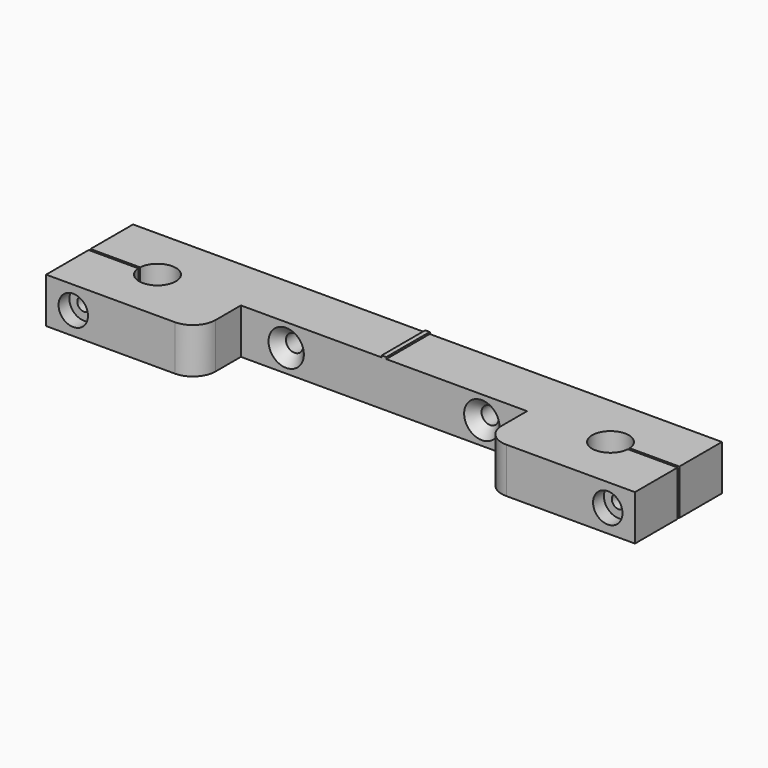
from build123d import *

# Parameters (mm, degrees)
F0_R            = 4.05
F1_DEPTH        = 10
F2_R            = 5
F4_D            = 3.7973
F4_CSINK_D      = 7.7978
F4_CSINK_ANGLE  = 82
F5_W            = 1
F5_H            = 12
F6_DEPTH        = 0.4
F8_DEPTH        = 25
F10_D           = 3
F10_CBORE_D     = 6.5
F10_CBORE_DEPTH = 3


with BuildPart() as f1:
    # F0 (on Top) → F1 (new body)
    with BuildSketch(Plane.XY):
        Polygon((67.5994434953, -8.2149432153), (-62.4005565047, -8.2149432153), (-62.4005565047, -32.2149432153), (-28.9914757013, -32.2149432153), (-28.9914757013, -20.2149432153), (34.1903626919, -20.2149432153), (34.1903626919, -32.2149432153), (67.5994434953, -32.2149432153), align=None)
        with Locations((-47.4005565047, -20.2149432153)):
            Circle(F0_R, mode=Mode.SUBTRACT)
        with Locations((52.5994434953, -20.2149432153)):
            Circle(F0_R, mode=Mode.SUBTRACT)
    extrude(amount=F1_DEPTH)

    # F2
    f2_edges = [f1.edges().sort_by_distance(p)[0] for p in [
        (34.190363, -32.214943, 5),
        (-28.991476, -32.214943, 5),
    ]]
    fillet(f2_edges, radius=F2_R)

    # F4 (through all)
    with Locations(Plane.XZ.offset(20.2149432153)):
        with Locations((-18.9914757013, 5), (24.1903626919, 5)):
            CounterSinkHole(F4_D / 2, F4_CSINK_D / 2, counter_sink_angle=F4_CSINK_ANGLE)

    # F5 (on face) → F6 (join)
    with BuildSketch(Plane.XY.offset(10)):
        with Locations((2.5994434953, -14.2149432153)):
            Rectangle(F5_W, F5_H)
    extrude(amount=F6_DEPTH)

    # F7 (on face) → F8 (cut)
    with BuildSketch(Plane.XY.offset(10)):
        with BuildLine():
            ThreePointArc((56.6417200816, -19.9649432153), (56.6475121814, -20.0898835784), (56.6494434953, -20.2149432153))
            ThreePointArc((56.6494434953, -20.2149432153), (56.6475121814, -20.3400028521), (56.6417200816, -20.4649432153))
            Line((56.6417200816, -20.4649432153), (67.5994434953, -20.4649432153))
            Line((67.5994434953, -20.4649432153), (67.5994434953, -19.9649432153))
            Line((67.5994434953, -19.9649432153), (56.6417200816, -19.9649432153))
        make_face()
        with BuildLine():
            Line((-51.442833091, -19.9649432153), (-62.4005565047, -19.9649432153))
            Line((-62.4005565047, -19.9649432153), (-62.4005565047, -20.4649432153))
            Line((-62.4005565047, -20.4649432153), (-51.442833091, -20.4649432153))
            ThreePointArc((-51.442833091, -20.4649432153), (-51.4505565047, -20.2149432153), (-51.442833091, -19.9649432153))
        make_face()
        with BuildLine():
            Line((-51.442833091, -20.4649432153), (-51.442833091, -19.9649432153))
            ThreePointArc((-51.442833091, -19.9649432153), (-51.4505565047, -20.2149432153), (-51.442833091, -20.4649432153))
        make_face()
        with BuildLine():
            ThreePointArc((56.6417200816, -20.4649432153), (56.6475121814, -20.3400028521), (56.6494434953, -20.2149432153))
            ThreePointArc((56.6494434953, -20.2149432153), (56.6475121814, -20.0898835784), (56.6417200816, -19.9649432153))
            Line((56.6417200816, -19.9649432153), (56.6417200816, -20.4649432153))
        make_face()
    extrude(amount=-F8_DEPTH, mode=Mode.SUBTRACT)

    # F10 (through all)
    with Locations(Plane.XZ.offset(32.2149432153)):
        with Locations((61.5994434953, 5), (-56.4005565047, 5)):
            CounterBoreHole(F10_D / 2, F10_CBORE_D / 2, F10_CBORE_DEPTH)


solid = f1.part
